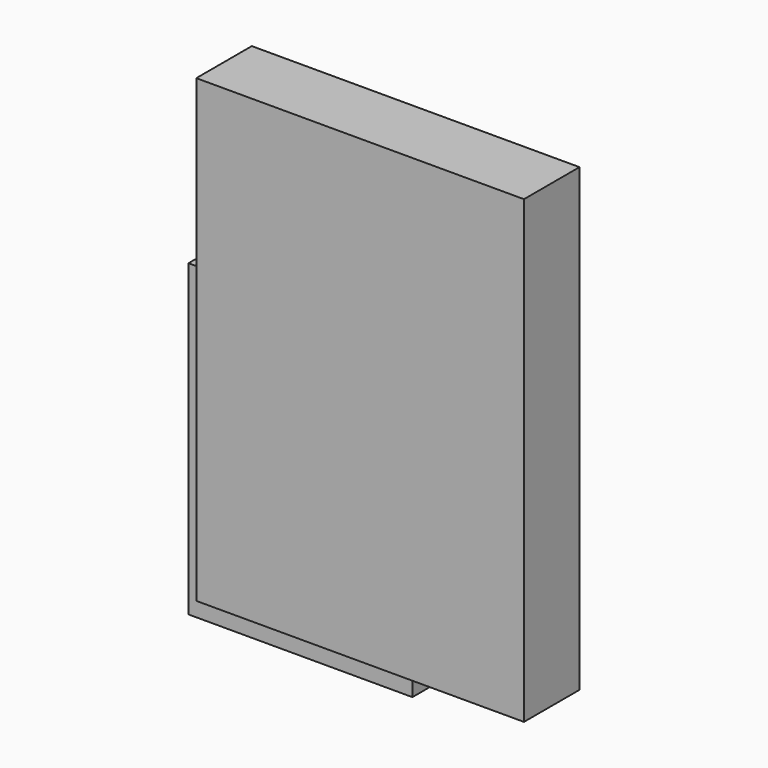
from build123d import *

# Parameters (mm, degrees)
F0_W     = 15.39
F0_H     = 24.98
F1_DEPTH = 2.64
F2_W     = 20.49
F2_H     = 28.776
F3_DEPTH = 4.34
F4_W     = 15.186399
F4_H     = 24.676934
F5_DEPTH = 2
F6_W     = 14
F6_H     = 19.3363
F7_DEPTH = 4


with BuildPart() as f1:
    # F0 (on Front) → F1 (new body)
    with BuildSketch(Plane.XZ):
        with Locations((-44.825791, 27.474496)):
            Rectangle(F0_W, F0_H)
    extrude(amount=-F1_DEPTH)


with BuildPart() as f3:
    # F2 (on Front) → F3 (new body)
    with BuildSketch(Plane.XZ):
        with Locations((-44.825791, 27.474496)):
            Rectangle(F2_W, F2_H)
    extrude(amount=F3_DEPTH)

    # F4 (on Front) → F5 (cut)
    with BuildSketch(Plane.XZ):
        with Locations((-45.035507, 27.436122)):
            Rectangle(F4_W, F4_H)
    extrude(amount=F5_DEPTH, mode=Mode.SUBTRACT)


with BuildPart() as f7:
    # F6 (on Front) → F7 (new body)
    with BuildSketch(Plane.XZ):
        with Locations((-52.027962, 18.956081)):
            Rectangle(F6_W, F6_H)
    extrude(amount=-F7_DEPTH)


solid = Compound([f1.part, f3.part, f7.part])
